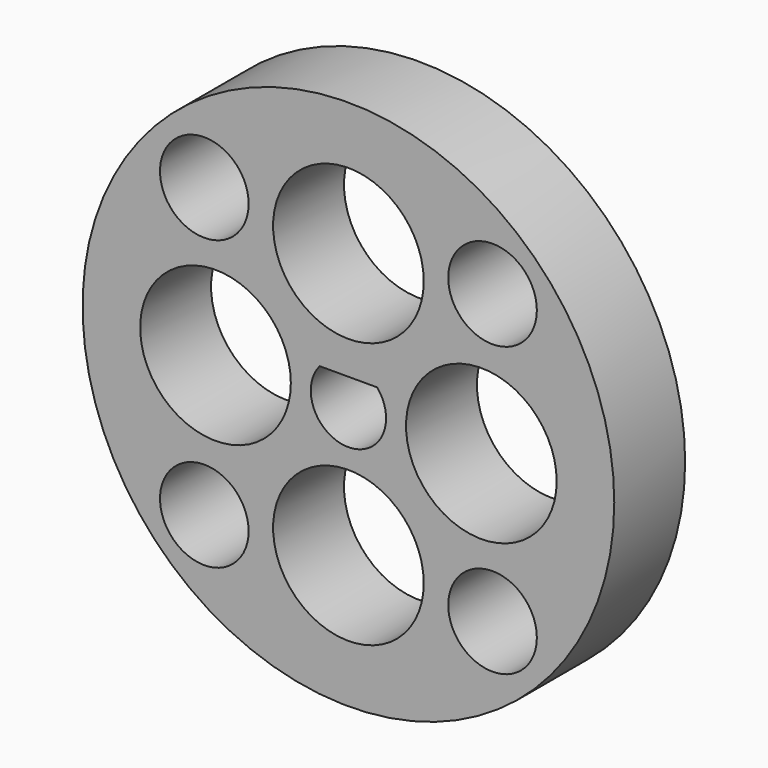
from build123d import *

# Parameters (mm, degrees)
F0_R     = 30
F0_R_2   = 5
F0_R_3   = 8.5
F1_DEPTH = 10


with BuildPart() as f1:
    # F0 (on Front) → F1 (new body)
    with BuildSketch(Plane.XZ):
        Circle(F0_R)
        with Locations((-16.263456, -16.263456)):
            Circle(F0_R_2, mode=Mode.SUBTRACT)
        with Locations((16.263456, -16.263456)):
            Circle(F0_R_2, mode=Mode.SUBTRACT)
        with Locations((0, -15)):
            Circle(F0_R_3, mode=Mode.SUBTRACT)
        with BuildLine():
            ThreePointArc((3.24037, 2.75), (0, -4.25), (-3.24037, 2.75))
            Line((-3.24037, 2.75), (3.24037, 2.75))
        make_face(mode=Mode.SUBTRACT)
        with Locations((-15, 0)):
            Circle(F0_R_3, mode=Mode.SUBTRACT)
        with Locations((-16.263456, 16.263456)):
            Circle(F0_R_2, mode=Mode.SUBTRACT)
        with Locations((15, 0)):
            Circle(F0_R_3, mode=Mode.SUBTRACT)
        with Locations((0, 15)):
            Circle(F0_R_3, mode=Mode.SUBTRACT)
        with Locations((16.263456, 16.263456)):
            Circle(F0_R_2, mode=Mode.SUBTRACT)
    extrude(amount=F1_DEPTH)


solid = f1.part
